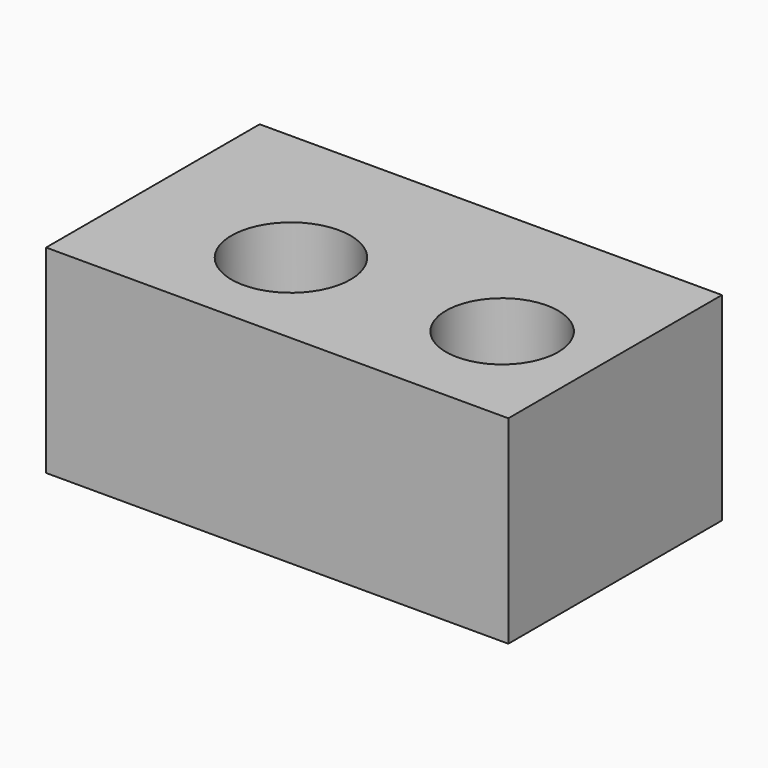
from build123d import *

# Parameters (mm, degrees)
F0_W     = 118.3176
F0_H     = 68.325918
F0_R     = 15.247622
F0_R_2   = 14.349341
F1_DEPTH = 50.8


with BuildPart() as f1:
    # F0 (on Top) → F1 (new body)
    with BuildSketch(Plane.XY):
        with Locations((18.222341, -0.023751)):
            Rectangle(F0_W, F0_H)
        with Locations((0, -7.01154)):
            Circle(F0_R, mode=Mode.SUBTRACT)
        with Locations((52.893829, -5.576186)):
            Circle(F0_R_2, mode=Mode.SUBTRACT)
    extrude(amount=-F1_DEPTH)


solid = f1.part
